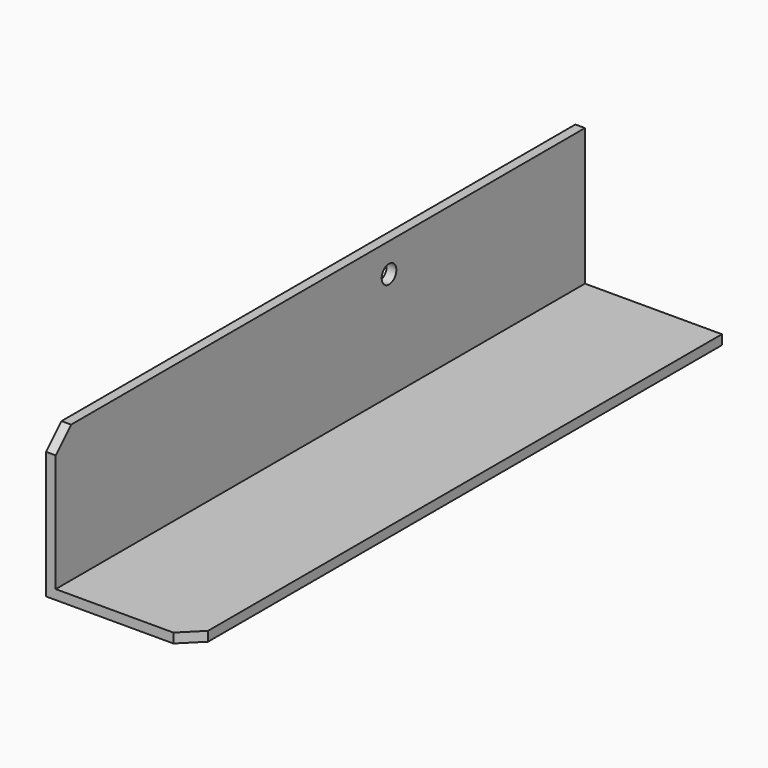
from build123d import *

# Parameters (mm, degrees)
F1_DEPTH = 343.9
F3_D     = 9.525
F4_SIZE  = 10


with BuildPart() as f1:
    # F0 (on Front) → F1 (new body)
    with BuildSketch(Plane.XZ):
        Polygon((0, 76.2), (0, 0), (76.2, 0), (76.2, 5), (5, 5), (5, 76.2), align=None)
    extrude(amount=F1_DEPTH)

    # F3 (through all)
    with Locations(Plane(origin=(0, 0, 0), x_dir=(0, -1, 0), z_dir=(-1, 0, 0))):
        with Locations((127.312, 61.11)):
            Hole(F3_D / 2)

    # F4
    f4_edges = [f1.edges().sort_by_distance(p)[0] for p in [
        (76.2, -343.9, 2.5),
        (2.5, -343.9, 76.2),
    ]]
    chamfer(f4_edges, length=F4_SIZE)


solid = f1.part
